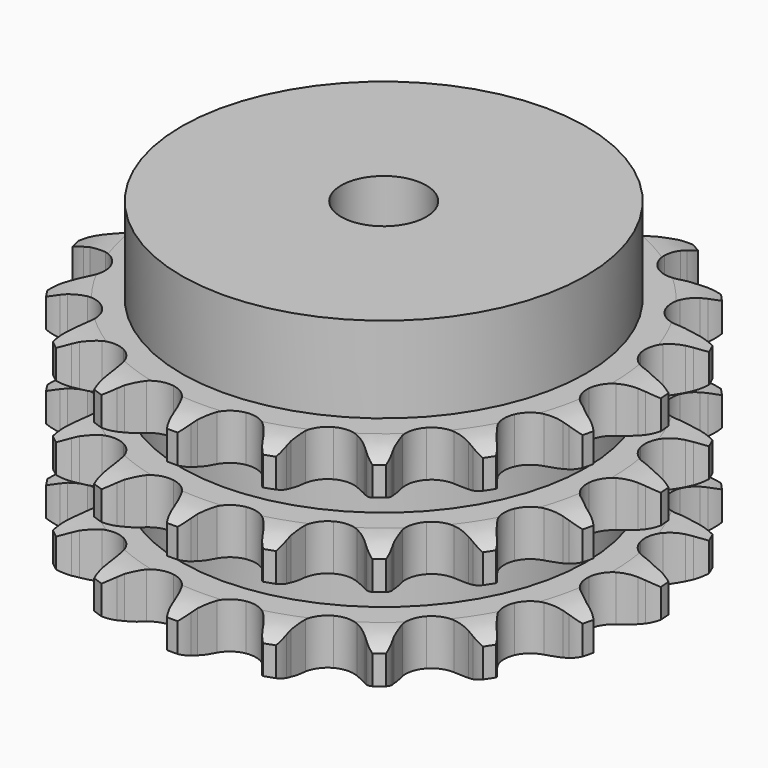
from build123d import *

# Parameters (mm, degrees)
PAD_DEPTH         = 49.8
SKETCH001_R       = 47.5
PAD001_DEPTH      = 70
SKETCH002_R       = 10
POCKET_DEPTH      = 0.001
POCKET_DEPTH_BACK = 70.001


with BuildPart() as part:
    # Sprocket → Pad (new body)
    with BuildSketch(Plane.XY):
        with BuildLine():
            ThreePointArc((-10.503966, 62.946816), (-8.74389, 61.167961), (-7.481259, 59.007416))
            Line((-7.481259, 59.007416), (-6.902532, 57.650953))
            ThreePointArc((-6.902532, 57.650953), (-5.967626, 55.805634), (-4.799073, 54.098669))
            ThreePointArc((-4.799073, 54.098669), (-2.667939, 52.380191), (0, 51.766185))
            ThreePointArc((0, 51.766185), (2.667939, 52.380191), (4.799073, 54.098669))
            ThreePointArc((4.799073, 54.098669), (5.967626, 55.805634), (6.902532, 57.650953))
            Line((6.902532, 57.650953), (7.481259, 59.007416))
            ThreePointArc((7.481259, 59.007416), (8.74389, 61.167961), (10.503966, 62.946816))
            ThreePointArc((10.503966, 62.946816), (11.591083, 60.692849), (12.083773, 58.239392))
            Line((12.083773, 58.239392), (12.1907, 56.768514))
            ThreePointArc((12.1907, 56.768514), (12.475776, 54.719616), (13.026763, 52.72571))
            ThreePointArc((13.026763, 52.72571), (14.484438, 50.408366), (16.808453, 48.96135))
            ThreePointArc((16.808453, 48.96135), (19.531203, 48.67581), (22.104855, 49.609197))
            Line((22.104855, 49.609197), (25.247767, 52.286017))
            ThreePointArc((25.247767, 52.286017), (25.728857, 52.845105), (26.23558, 53.38107))
            ThreePointArc((26.23558, 53.38107), (28.131326, 55.014576), (30.37363, 56.125552))
            ThreePointArc((30.37363, 56.125552), (30.669982, 53.640724), (30.33934, 51.160227))
            Line((30.33934, 51.160227), (29.962881, 49.734325))
            ThreePointArc((29.962881, 49.734325), (29.567234, 47.703879), (29.440947, 45.639103))
            ThreePointArc((29.440947, 45.639103), (30.067201, 42.974012), (31.795449, 40.850793))
            ThreePointArc((31.795449, 40.850793), (34.277958, 39.696649), (37.015233, 39.743799))
            Line((37.015233, 39.743799), (40.857016, 41.25508))
            ThreePointArc((40.857016, 41.25508), (41.493574, 41.627665), (42.14687, 41.970058))
            ThreePointArc((42.14687, 41.970058), (44.470297, 42.899508), (46.95184, 43.222213))
            ThreePointArc((46.95184, 43.222213), (46.425312, 40.775795), (45.307169, 38.537057))
            Line((45.307169, 38.537057), (44.488118, 37.310651))
            ThreePointArc((44.488118, 37.310651), (43.454624, 35.518686), (42.664748, 33.60679))
            ThreePointArc((42.664748, 33.60679), (42.391716, 30.882758), (43.336914, 28.313419))
            ThreePointArc((43.336914, 28.313419), (45.310164, 26.41574), (47.914436, 25.571544))
            Line((47.914436, 25.571544), (52.038772, 25.753515))
            ThreePointArc((52.038772, 25.753515), (52.761819, 25.899222), (53.490891, 26.010938))
            ThreePointArc((53.490891, 26.010938), (55.990221, 26.135612), (58.442089, 25.635077))
            ThreePointArc((58.442089, 25.635077), (57.14974, 23.492176), (55.365264, 21.737799))
            Line((55.365264, 21.737799), (54.192378, 20.843788))
            ThreePointArc((54.192378, 20.843788), (52.633031, 19.484492), (51.265161, 17.932661))
            ThreePointArc((51.265161, 17.932661), (50.122431, 15.444877), (50.182153, 12.707847))
            ThreePointArc((50.182153, 12.707847), (51.432311, 10.272276), (53.621367, 8.628215))
            Line((53.621367, 8.628215), (57.581321, 7.461156))
            ThreePointArc((57.581321, 7.461156), (58.312502, 7.364196), (59.038345, 7.23313))
            ThreePointArc((59.038345, 7.23313), (61.442736, 6.539518), (63.599232, 5.269983))
            ThreePointArc((63.599232, 5.269983), (61.681106, 3.662815), (59.423673, 2.582913))
            Line((59.423673, 2.582913), (58.024052, 2.118178))
            ThreePointArc((58.024052, 2.118178), (56.107833, 1.338851), (54.310199, 0.315249))
            ThreePointArc((54.310199, 0.315249), (52.421603, -1.666696), (51.589377, -4.274818))
            ThreePointArc((51.589377, -4.274818), (51.98097, -6.984348), (53.51759, -9.250114))
            Line((53.51759, -9.250114), (56.884039, -11.639734))
            ThreePointArc((56.884039, -11.639734), (57.54412, -11.968855), (58.188078, -12.328501))
            ThreePointArc((58.188078, -12.328501), (60.236977, -13.765235), (61.86441, -15.666196))
            ThreePointArc((61.86441, -15.666196), (59.528368, -16.563469), (57.042605, -16.851871))
            Line((57.042605, -16.851871), (55.56792, -16.83697))
            ThreePointArc((55.56792, -16.83697), (53.50248, -16.951875), (51.469884, -17.336325))
            ThreePointArc((51.469884, -17.336325), (49.040081, -18.597656), (47.406091, -20.79424))
            ThreePointArc((47.406091, -20.79424), (46.896683, -23.48411), (47.614352, -26.126051))
            Line((47.614352, -26.126051), (50.02249, -29.479278))
            ThreePointArc((50.02249, -29.479278), (50.53994, -30.004894), (51.03223, -30.554146))
            ThreePointArc((51.03223, -30.554146), (52.503607, -32.578311), (53.42562, -34.9047))
            ThreePointArc((53.42562, -34.9047), (50.924807, -34.994844), (48.480086, -34.460494))
            Line((48.480086, -34.460494), (47.090142, -33.967571))
            ThreePointArc((47.090142, -33.967571), (45.099303, -33.405602), (43.052008, -33.109239))
            ThreePointArc((43.052008, -33.109239), (40.344305, -33.513272), (38.08562, -35.060283))
            ThreePointArc((38.08562, -35.060283), (36.730413, -37.439004), (36.55136, -40.170824))
            Line((36.55136, -40.170824), (37.740227, -44.124286))
            ThreePointArc((37.740227, -44.124286), (38.058973, -44.789438), (38.346248, -45.468776))
            ThreePointArc((38.346248, -45.468776), (39.080656, -47.861022), (39.197335, -50.360737))
            ThreePointArc((39.197335, -50.360737), (36.802753, -49.633985), (34.663997, -48.334787))
            Line((34.663997, -48.334787), (33.509416, -47.417258))
            ThreePointArc((33.509416, -47.417258), (31.808917, -46.239314), (29.968779, -45.294253))
            ThreePointArc((29.968779, -45.294253), (27.276597, -44.797205), (24.637981, -45.527001))
            ThreePointArc((24.637981, -45.527001), (22.583833, -47.336802), (21.527462, -49.862466))
            Line((21.527462, -49.862466), (21.368225, -53.987742))
            ThreePointArc((21.368225, -53.987742), (21.453726, -54.720351), (21.504855, -55.456159))
            ThreePointArc((21.504855, -55.456159), (21.42271, -57.957248), (20.721411, -60.359408))
            ThreePointArc((20.721411, -60.359408), (18.69255, -58.894513), (17.091526, -56.971257))
            Line((17.091526, -56.971257), (16.297425, -55.72855))
            ThreePointArc((16.297425, -55.72855), (15.071541, -54.062279), (13.637968, -52.570932))
            ThreePointArc((13.637968, -52.570932), (11.253047, -51.226665), (8.520434, -51.060161))
            ThreePointArc((8.520434, -51.060161), (5.989945, -52.104922), (4.170728, -54.150735))
            Line((4.170728, -54.150735), (2.680645, -58.000789))
            ThreePointArc((2.680645, -58.000789), (2.523635, -58.721465), (2.333077, -59.434006))
            ThreePointArc((2.333077, -59.434006), (1.443281, -61.772907), (0, -63.8172))
            ThreePointArc((0, -63.8172), (-1.443281, -61.772907), (-2.333077, -59.434006))
            Line((-2.333077, -59.434006), (-2.680645, -58.000789))
            ThreePointArc((-2.680645, -58.000789), (-3.29907, -56.026757), (-4.170728, -54.150735))
            ThreePointArc((-4.170728, -54.150735), (-5.989945, -52.104922), (-8.520434, -51.060161))
            ThreePointArc((-8.520434, -51.060161), (-11.253047, -51.226665), (-13.637968, -52.570932))
            Line((-13.637968, -52.570932), (-16.297425, -55.72855))
            ThreePointArc((-16.297425, -55.72855), (-16.679931, -56.359197), (-17.091526, -56.971257))
            ThreePointArc((-17.091526, -56.971257), (-18.69255, -58.894513), (-20.721411, -60.359408))
            ThreePointArc((-20.721411, -60.359408), (-21.42271, -57.957248), (-21.504855, -55.456159))
            Line((-21.504855, -55.456159), (-21.368225, -53.987742))
            ThreePointArc((-21.368225, -53.987742), (-21.312175, -51.919867), (-21.527462, -49.862466))
            ThreePointArc((-21.527462, -49.862466), (-22.583833, -47.336802), (-24.637981, -45.527001))
            ThreePointArc((-24.637981, -45.527001), (-27.276597, -44.797205), (-29.968779, -45.294253))
            Line((-29.968779, -45.294253), (-33.509416, -47.417258))
            ThreePointArc((-33.509416, -47.417258), (-34.075968, -47.889536), (-34.663997, -48.334787))
            ThreePointArc((-34.663997, -48.334787), (-36.802753, -49.633985), (-39.197335, -50.360737))
            ThreePointArc((-39.197335, -50.360737), (-39.080656, -47.861022), (-38.346248, -45.468776))
            Line((-38.346248, -45.468776), (-37.740227, -44.124286))
            ThreePointArc((-37.740227, -44.124286), (-37.015776, -42.186653), (-36.55136, -40.170824))
            ThreePointArc((-36.55136, -40.170824), (-36.730413, -37.439004), (-38.08562, -35.060283))
            ThreePointArc((-38.08562, -35.060283), (-40.344305, -33.513272), (-43.052008, -33.109239))
            Line((-43.052008, -33.109239), (-47.090142, -33.967571))
            ThreePointArc((-47.090142, -33.967571), (-47.779345, -34.2303), (-48.480086, -34.460494))
            ThreePointArc((-48.480086, -34.460494), (-50.924807, -34.994844), (-53.42562, -34.9047))
            ThreePointArc((-53.42562, -34.9047), (-52.503607, -32.578311), (-51.03223, -30.554146))
            Line((-51.03223, -30.554146), (-50.02249, -29.479278))
            ThreePointArc((-50.02249, -29.479278), (-48.708143, -27.881861), (-47.614352, -26.126051))
            ThreePointArc((-47.614352, -26.126051), (-46.896683, -23.48411), (-47.406091, -20.79424))
            ThreePointArc((-47.406091, -20.79424), (-49.040081, -18.597656), (-51.469884, -17.336325))
            Line((-51.469884, -17.336325), (-55.56792, -16.83697))
            ThreePointArc((-55.56792, -16.83697), (-56.305088, -16.86168), (-57.042605, -16.851871))
            ThreePointArc((-57.042605, -16.851871), (-59.528368, -16.563469), (-61.86441, -15.666196))
            ThreePointArc((-61.86441, -15.666196), (-60.236977, -13.765235), (-58.188078, -12.328501))
            Line((-58.188078, -12.328501), (-56.884039, -11.639734))
            ThreePointArc((-56.884039, -11.639734), (-55.122227, -10.555637), (-53.51759, -9.250114))
            ThreePointArc((-53.51759, -9.250114), (-51.98097, -6.984348), (-51.589377, -4.274818))
            ThreePointArc((-51.589377, -4.274818), (-52.421603, -1.666696), (-54.310199, 0.315249))
            Line((-54.310199, 0.315249), (-58.024052, 2.118178))
            ThreePointArc((-58.024052, 2.118178), (-58.729302, 2.334164), (-59.423673, 2.582913))
            ThreePointArc((-59.423673, 2.582913), (-61.681106, 3.662815), (-63.599232, 5.269983))
            ThreePointArc((-63.599232, 5.269983), (-61.442736, 6.539518), (-59.038345, 7.23313))
            Line((-59.038345, 7.23313), (-57.581321, 7.461156))
            ThreePointArc((-57.581321, 7.461156), (-55.562963, 7.914455), (-53.621367, 8.628215))
            ThreePointArc((-53.621367, 8.628215), (-51.432311, 10.272276), (-50.182153, 12.707847))
            ThreePointArc((-50.182153, 12.707847), (-50.122431, 15.444877), (-51.265161, 17.932661))
            Line((-51.265161, 17.932661), (-54.192378, 20.843788))
            ThreePointArc((-54.192378, 20.843788), (-54.789284, 21.277066), (-55.365264, 21.737799))
            ThreePointArc((-55.365264, 21.737799), (-57.14974, 23.492176), (-58.442089, 25.635077))
            ThreePointArc((-58.442089, 25.635077), (-55.990221, 26.135612), (-53.490891, 26.010938))
            Line((-53.490891, 26.010938), (-52.038772, 25.753515))
            ThreePointArc((-52.038772, 25.753515), (-49.982589, 25.526892), (-47.914436, 25.571544))
            ThreePointArc((-47.914436, 25.571544), (-45.310164, 26.41574), (-43.336914, 28.313419))
            ThreePointArc((-43.336914, 28.313419), (-42.391716, 30.882758), (-42.664748, 33.60679))
            Line((-42.664748, 33.60679), (-44.488118, 37.310651))
            ThreePointArc((-44.488118, 37.310651), (-44.911998, 37.914268), (-45.307169, 38.537057))
            ThreePointArc((-45.307169, 38.537057), (-46.425312, 40.775795), (-46.95184, 43.222213))
            ThreePointArc((-46.95184, 43.222213), (-44.470297, 42.899508), (-42.14687, 41.970058))
            Line((-42.14687, 41.970058), (-40.857016, 41.25508))
            ThreePointArc((-40.857016, 41.25508), (-38.985826, 40.373095), (-37.015233, 39.743799))
            ThreePointArc((-37.015233, 39.743799), (-34.277958, 39.696649), (-31.795449, 40.850793))
            ThreePointArc((-31.795449, 40.850793), (-30.067201, 42.974012), (-29.440947, 45.639103))
            Line((-29.440947, 45.639103), (-29.962881, 49.734325))
            ThreePointArc((-29.962881, 49.734325), (-30.167799, 50.44287), (-30.33934, 51.160227))
            ThreePointArc((-30.33934, 51.160227), (-30.669982, 53.640724), (-30.37363, 56.125552))
            ThreePointArc((-30.37363, 56.125552), (-28.131326, 55.014576), (-26.23558, 53.38107))
            Line((-26.23558, 53.38107), (-25.247767, 52.286017))
            ThreePointArc((-25.247767, 52.286017), (-23.764344, 50.844246), (-22.104855, 49.609197))
            ThreePointArc((-22.104855, 49.609197), (-19.531203, 48.67581), (-16.808453, 48.96135))
            ThreePointArc((-16.808453, 48.96135), (-14.484438, 50.408366), (-13.026763, 52.72571))
            Line((-13.026763, 52.72571), (-12.1907, 56.768514))
            ThreePointArc((-12.1907, 56.768514), (-12.154452, 57.505204), (-12.083773, 58.239392))
            ThreePointArc((-12.083773, 58.239392), (-11.591083, 60.692849), (-10.503966, 62.946816))
        make_face()
    extrude(amount=PAD_DEPTH)

    # Sketch → Groove (revolve, cut)
    with BuildSketch(Plane.XZ):
        with BuildLine():
            ThreePointArc((53.614719, 0), (57.973618, 0.506758), (62.1, 2))
            Line((62.1, 2), (62.1, 8.8))
            ThreePointArc((62.1, 8.8), (57.973618, 10.293242), (53.614719, 10.8))
            Line((47.5, 10.8), (53.614719, 10.8))
            Line((47.5, 10.8), (47.5, 19.5))
            Line((47.5, 19.5), (53.614719, 19.5))
            ThreePointArc((53.614719, 19.5), (57.973618, 20.006758), (62.1, 21.5))
            Line((62.1, 28.3), (62.1, 21.5))
            ThreePointArc((62.1, 28.3), (57.973618, 29.793242), (53.614719, 30.3))
            Line((47.5, 30.3), (53.614719, 30.3))
            Line((47.5, 39), (47.5, 30.3))
            Line((53.614719, 39), (47.5, 39))
            ThreePointArc((53.614719, 39), (57.973618, 39.506758), (62.1, 41))
            Line((62.1, 41), (62.1, 47.8))
            ThreePointArc((62.1, 47.8), (57.973618, 49.293242), (53.614719, 49.8))
            Line((53.614719, 49.8), (72.1, 49.8))
            Line((72.1, 49.8), (72.1, 0))
            Line((53.614719, 0), (72.1, 0))
        make_face()
    revolve(axis=Axis((0, 0, 0), (0, 0, 1)), mode=Mode.SUBTRACT)

    # Sketch001 → Pad001 (join)
    with BuildSketch(Plane.XY):
        Circle(SKETCH001_R)
    extrude(amount=PAD001_DEPTH)

    # Sketch002 → Pocket (cut, two sides)
    with BuildSketch(Plane.XY) as pocket_sk:
        Circle(SKETCH002_R)
    extrude(amount=-POCKET_DEPTH, mode=Mode.SUBTRACT)
    extrude(pocket_sk.sketch, amount=POCKET_DEPTH_BACK, mode=Mode.SUBTRACT)


solid = part.part
